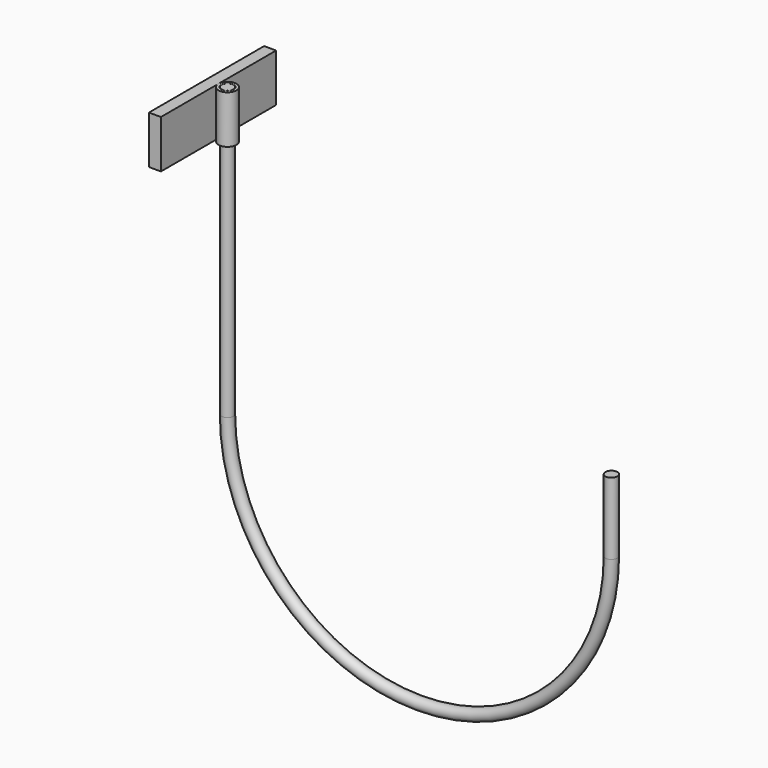
from build123d import *

# Parameters (mm, degrees)
F2_R     = 3.175
F4_W     = 6.35
F4_H     = 38.1
F4_R     = 3.302
F5_DEPTH = 25.4


with BuildPart() as f3:
    # F3: sweep along a path in F0
    with BuildLine(Plane.XZ) as f3_path:
        Line((0, 76.2), (0, -76.2))
        ThreePointArc((0, -76.2), (101.6, -177.8), (203.2, -76.2))
        Line((203.2, -76.2), (203.2, -38.1))
    # F2 (on plane+point) → F3 (sweep)
    with BuildSketch(Plane.XY.offset(76.2)):
        Circle(F2_R)
    sweep(path=f3_path.line)


with BuildPart() as f5:
    # F4 (on plane+point) → F5 (new body)
    with BuildSketch(Plane.XY.offset(76.2)):
        with Locations((-7.9375, 19.05)):
            Rectangle(F4_W, F4_H)
        with BuildLine():
            ThreePointArc((4.7625, 0), (0, 4.7625), (-4.7625, 0))
            ThreePointArc((-4.7625, 0), (0, -4.7625), (4.7625, 0))
        make_face()
        Circle(F4_R, mode=Mode.SUBTRACT)
        with Locations((-7.9375, -19.05)):
            Rectangle(F4_W, F4_H)
    extrude(amount=-F5_DEPTH)


solid = Compound([f3.part, f5.part])
